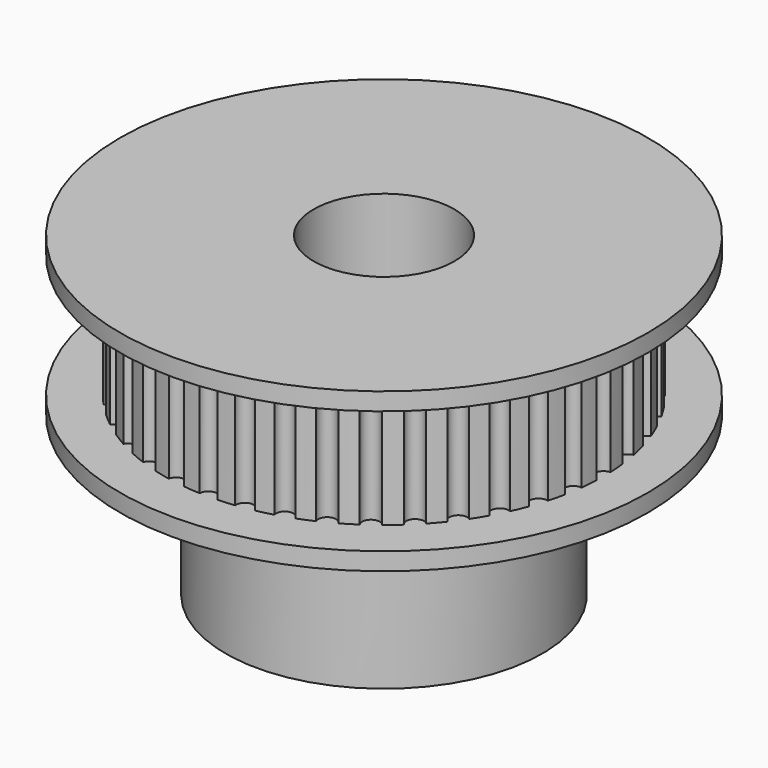
from build123d import *

# Parameters (mm, degrees)
SKETCH_R           = 15
PAD_DEPTH          = 18
SKETCH001_W        = 2.525
SKETCH001_H        = 7
SKETCH002_R        = 4
POCKET_DEPTH       = 18.001
SKETCH003_W        = 6
SKETCH003_H        = 9
POCKET001_DEPTH    = 7
POLARPATTERN_COUNT = 40


with BuildPart() as part:
    # Sketch → Pad (new body)
    with BuildSketch(Plane.XY):
        Circle(SKETCH_R)
    extrude(amount=PAD_DEPTH)

    # Sketch001 → Groove (revolve, cut)
    with BuildSketch(Plane.XZ):
        with Locations((13.7375, 13.5)):
            Rectangle(SKETCH001_W, SKETCH001_H)
    revolve(axis=Axis((0, 0, 0), (0, 0, 1)), mode=Mode.SUBTRACT)

    # Sketch002 (on Face7 of Groove) → Pocket (cut, through all)
    with BuildSketch(Plane.XY.offset(18)):
        Circle(SKETCH002_R)
    extrude(amount=-POCKET_DEPTH, mode=Mode.SUBTRACT)

    # Sketch003 → Groove001 (revolve, cut)
    with BuildSketch(Plane.YZ):
        with Locations((12, 4.5)):
            Rectangle(SKETCH003_W, SKETCH003_H)
    revolve(axis=Axis((0, 0, 0), (0, 0, 1)), mode=Mode.SUBTRACT)

    # Sketch004 (on Face3 of Groove001) → Pocket001 (cut)
    with BuildSketch(Plane.XY.offset(10)):
        with BuildLine():
            ThreePointArc((12.46498, 0.4999), (11.975, 0), (12.46498, -0.4999))
            ThreePointArc((12.46498, -0.4999), (12.475, 0), (12.46498, 0.4999))
        make_face()
    pocket001 = extrude(amount=POCKET001_DEPTH, mode=Mode.SUBTRACT)

    # PolarPattern: Pocket001 ×40 about axis
    polarpattern_axis = Axis((0, 0, 10), (0, 0, 1))
    for i in range(1, POLARPATTERN_COUNT):
        add(pocket001.rotate(polarpattern_axis, i * 360 / POLARPATTERN_COUNT), mode=Mode.SUBTRACT)


solid = part.part
